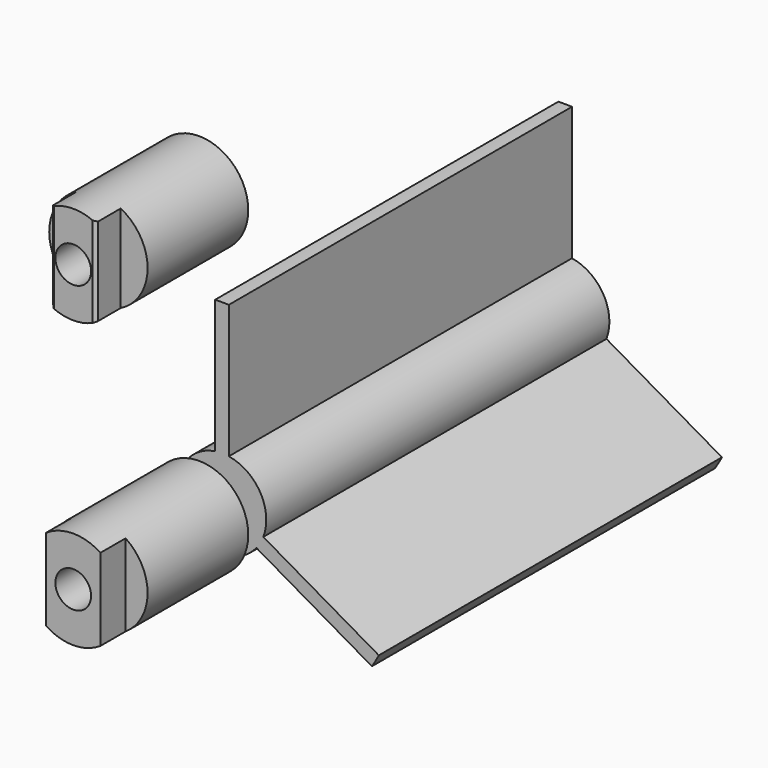
from build123d import *

# Parameters (mm, degrees)
F0_R      = 15.748
F0_R_2    = 1.5875
F1_DEPTH  = 38.1
F4_DEPTH  = 40.641
F6_D      = 2.2606
F6_DEPTH  = 8.3970275197
F7_R      = 4.3688
F7_R_2    = 1.5875
F8_DEPTH  = 13.97
F10_W     = 7.4564515574
F10_H     = 24.0045413943
F11_DEPTH = 5.334
F13_D     = 2.2606
F13_DEPTH = 4.3698
F15_W     = 4.0957157816
F15_H     = 6.6450905805
F16_DEPTH = 38.1
F17_SIZE  = 0.254


with BuildPart() as f1:
    # F0 (on Front) → F1 (new body)
    with BuildSketch(Plane.XZ):
        Circle(F0_R)
        Circle(F0_R_2, mode=Mode.SUBTRACT)
    extrude(amount=-F1_DEPTH)

    # F3 (on offset) → F4 (cut, through all)
    with BuildSketch(Plane.XZ.offset(2.54)):
        with BuildLine():
            ThreePointArc((-3.6732221276, -1.416830336), (-3.4095420147, 1.9685), (-0.6096, 3.8895188443))
            Line((-0.6096, 3.8895188443), (-0.6096, 18.2243121161))
            ThreePointArc((-0.6096, 18.2243121161), (-15.7915443576, 9.1172523858), (-16.087517259, -8.5842269719))
            Line((-16.087517259, -8.5842269719), (-3.6732221276, -1.416830336))
        make_face()
        with BuildLine():
            Line((0.6096, 18.2243121161), (0.6096, 3.8895188443))
            ThreePointArc((0.6096, 3.8895188443), (3.4095420147, 1.9685), (3.6732221276, -1.416830336))
            Line((3.6732221276, -1.416830336), (16.087517259, -8.5842269719))
            ThreePointArc((16.087517259, -8.5842269719), (15.7915443576, 9.1172523858), (0.6096, 18.2243121161))
        make_face()
        with BuildLine():
            Line((15.477917259, -9.6400851442), (3.0636221276, -2.4726885083))
            ThreePointArc((3.0636221276, -2.4726885083), (0, -3.937), (-3.0636221276, -2.4726885083))
            Line((-3.0636221276, -2.4726885083), (-15.477917259, -9.6400851442))
            ThreePointArc((-15.477917259, -9.6400851442), (0, -18.2345047716), (15.477917259, -9.6400851442))
        make_face()
    extrude(amount=-F4_DEPTH, mode=Mode.SUBTRACT)

    # F6 (through all, one way)
    with BuildSketch(Plane.XY):
        with Locations((0, 6.35)):
            Circle(F6_D / 2)
    extrude(amount=-F6_DEPTH, mode=Mode.SUBTRACT)


with BuildPart() as f8:
    # F7 (on offset) → F8 (new body)
    with BuildSketch(Plane.XZ.offset(2.54)):
        Circle(F7_R)
        Circle(F7_R_2, mode=Mode.SUBTRACT)
    extrude(amount=F8_DEPTH)

    # F10 (on offset) → F11 (cut)
    with BuildSketch(Plane.XZ.offset(19.05)):
        with Locations((-6.1412257787, -0.9254051838)):
            Rectangle(F10_W, F10_H)
        with Locations((6.1412257787, -0.9254051838)):
            Rectangle(F10_W, F10_H)
    extrude(amount=-F11_DEPTH, mode=Mode.SUBTRACT)

    # F13 (through all, one way)
    with BuildSketch(Plane.XY):
        with Locations((0, -8.89)):
            Circle(F13_D / 2)
    extrude(amount=-F13_DEPTH, mode=Mode.SUBTRACT)


with BuildPart() as f14_1:
    # F14: copy of F8
    add(f8.part.moved(Location((0, 0, 25.4))))

    # F15 (on Top) → F16 (cut)
    with BuildSketch(Plane.XY):
        with Locations((-4.0290578908, -17.0385452903)):
            Rectangle(F15_W, F15_H)
        with Locations((4.0290578908, -17.0385452903)):
            Rectangle(F15_W, F15_H)
    extrude(amount=F16_DEPTH, mode=Mode.SUBTRACT)

    # F17
    f17_edges = [f14_1.edges().sort_by_distance(p)[0] for p in [
        (-1.9812, -16.51, 25.4),
        (1.9812, -16.51, 25.4),
    ]]
    chamfer(f17_edges, length=F17_SIZE)


solid = Compound([f1.part, f8.part, f14_1.part])
